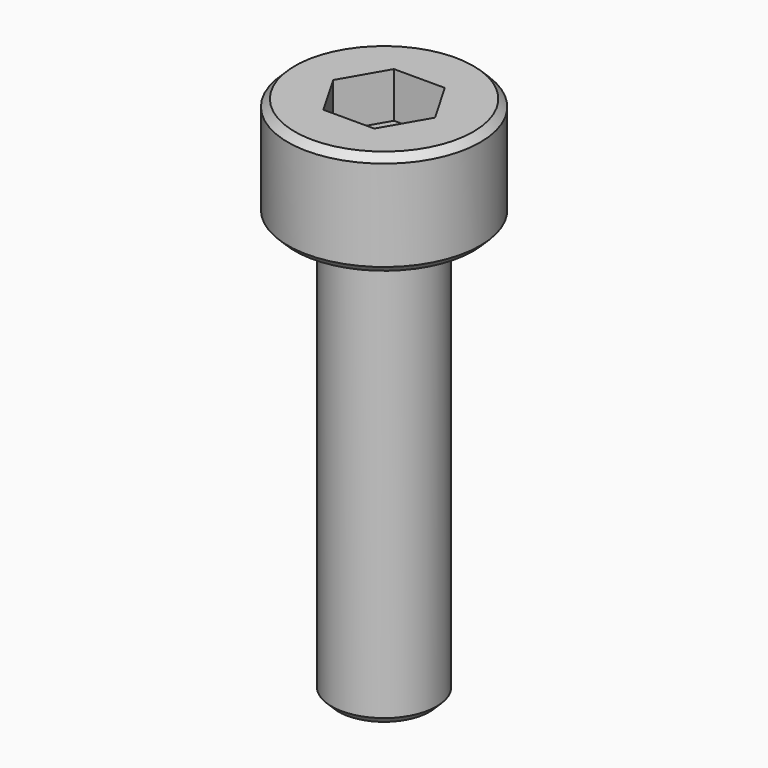
from build123d import *

# Parameters (mm, degrees)
F3_DEPTH = 1.3
F4_SIZE  = 0.2


with BuildPart() as f1:
    # F0 (on Front) → F1 (revolve)
    with BuildSketch(Plane.XZ):
        Polygon((2.75, 0), (0, 0), (0, -15), (1.5, -15), (1.5, -3), (2.75, -3), align=None)
    revolve(axis=Axis((0, 0, -7.5), (0, 0, -1)))

    # F2 (on face) → F3 (cut)
    with BuildSketch(Plane.XY):
        Polygon((-1.454923, 0), (-0.727461, -1.26), (0.727461, -1.26), (1.454923, 0), (0.727461, 1.26), (-0.727461, 1.26), align=None)
    extrude(amount=-F3_DEPTH, mode=Mode.SUBTRACT)

    # F4
    f4_edges = [f1.edges().sort_by_distance(p)[0] for p in [
        (-2.75, 0, -3),
        (-2.75, 0, 0),
        (2.75, 0, -1.5),
        (-1.5, 0, -15),
    ]]
    chamfer(f4_edges, length=F4_SIZE)


solid = f1.part
